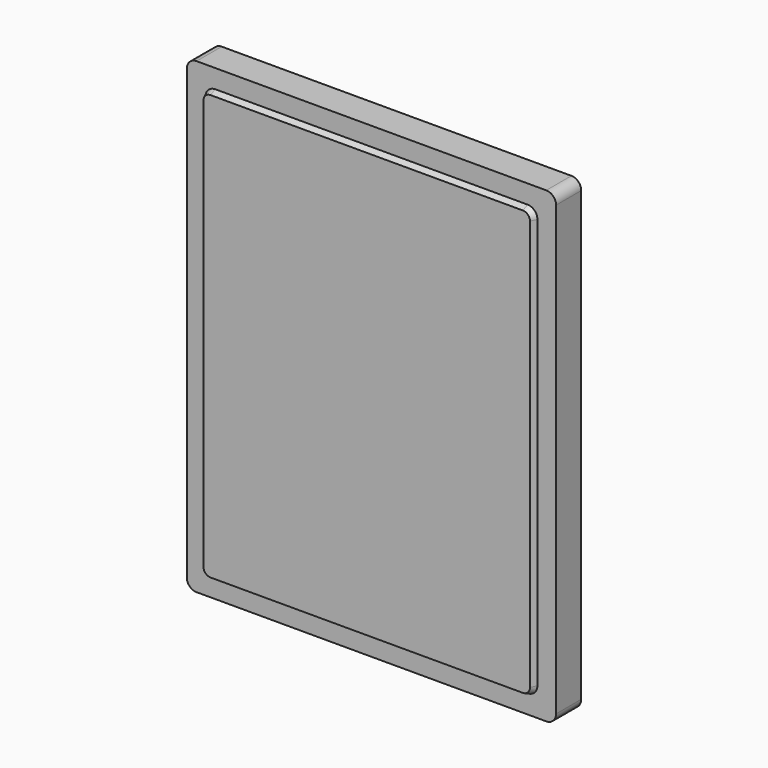
from build123d import *

# Parameters (mm, degrees)
F1_DEPTH = 20.32
F3_DEPTH = 3.81
F3_TAPER = 25


with BuildPart() as f1:
    # F0 (on Front) → F1 (new body)
    with BuildSketch(Plane.XZ):
        with BuildLine():
            Line((-113.03, -151.13), (113.03, -151.13))
            ThreePointArc((113.03, -151.13), (117.5201280605, -149.2701280605), (119.38, -144.78))
            Line((119.38, -144.78), (119.38, 144.78))
            ThreePointArc((119.38, 144.78), (117.5201280605, 149.2701280605), (113.03, 151.13))
            Line((113.03, 151.13), (-113.03, 151.13))
            ThreePointArc((-113.03, 151.13), (-117.5201280605, 149.2701280605), (-119.38, 144.78))
            Line((-119.38, 144.78), (-119.38, -144.78))
            ThreePointArc((-119.38, -144.78), (-117.5201280605, -149.2701280605), (-113.03, -151.13))
        make_face()
        with BuildLine():
            ThreePointArc((107.315, -132.715), (105.4551280605, -137.2051280605), (100.965, -139.065))
            Line((100.965, -139.065), (-100.965, -139.065))
            ThreePointArc((-100.965, -139.065), (-105.4551280605, -137.2051280605), (-107.315, -132.715))
            Line((-107.315, -132.715), (-107.315, 132.715))
            ThreePointArc((-107.315, 132.715), (-105.4551280605, 137.2051280605), (-100.965, 139.065))
            Line((-100.965, 139.065), (100.965, 139.065))
            ThreePointArc((100.965, 139.065), (105.4551280605, 137.2051280605), (107.315, 132.715))
            Line((107.315, 132.715), (107.315, -132.715))
        make_face(mode=Mode.SUBTRACT)
    extrude(amount=F1_DEPTH)


with BuildPart() as f3:
    # F2 (on face) → F3 (new body)
    with BuildSketch(Plane.XZ.offset(20.32)):
        with BuildLine():
            Line((-100.965, -139.065), (100.965, -139.065))
            ThreePointArc((100.965, -139.065), (105.4551280605, -137.2051280605), (107.315, -132.715))
            Line((107.315, -132.715), (107.315, 132.715))
            ThreePointArc((107.315, 132.715), (105.4551280605, 137.2051280605), (100.965, 139.065))
            Line((100.965, 139.065), (-100.965, 139.065))
            ThreePointArc((-100.965, 139.065), (-105.4551280605, 137.2051280605), (-107.315, 132.715))
            Line((-107.315, 132.715), (-107.315, -132.715))
            ThreePointArc((-107.315, -132.715), (-105.4551280605, -137.2051280605), (-100.965, -139.065))
        make_face()
    extrude(amount=F3_DEPTH, taper=F3_TAPER)


solid = Compound([f1.part, f3.part])
